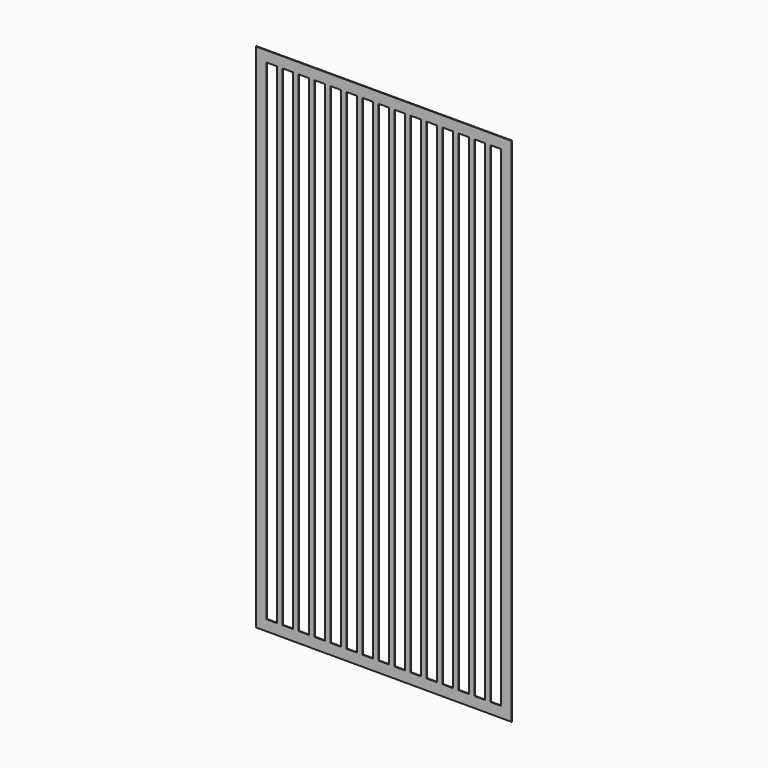
from build123d import *

# Parameters (mm, degrees)
F0_W     = 1219.2
F0_H     = 2438.4
F0_W_2   = 50.8
F0_H_2   = 2336.8
F1_DEPTH = 3.175


with BuildPart() as f1:
    # F0 (on Front) → F1 (new body)
    with BuildSketch(Plane.XZ):
        with Locations((-45.95434, -247.004782)):
            Rectangle(F0_W, F0_H)
        with Locations((-579.35434, -247.004782)):
            Rectangle(F0_W_2, F0_H_2, mode=Mode.SUBTRACT)
        with Locations((-503.15434, -247.004782)):
            Rectangle(F0_W_2, F0_H_2, mode=Mode.SUBTRACT)
        with Locations((-426.95434, -247.004782)):
            Rectangle(F0_W_2, F0_H_2, mode=Mode.SUBTRACT)
        with Locations((-350.75434, -247.004782)):
            Rectangle(F0_W_2, F0_H_2, mode=Mode.SUBTRACT)
        with Locations((-274.55434, -247.004782)):
            Rectangle(F0_W_2, F0_H_2, mode=Mode.SUBTRACT)
        with Locations((-198.35434, -247.004782)):
            Rectangle(F0_W_2, F0_H_2, mode=Mode.SUBTRACT)
        with Locations((-122.15434, -247.004782)):
            Rectangle(F0_W_2, F0_H_2, mode=Mode.SUBTRACT)
        with Locations((-45.95434, -247.004782)):
            Rectangle(F0_W_2, F0_H_2, mode=Mode.SUBTRACT)
        with Locations((30.24566, -247.004782)):
            Rectangle(F0_W_2, F0_H_2, mode=Mode.SUBTRACT)
        with Locations((106.44566, -247.004782)):
            Rectangle(F0_W_2, F0_H_2, mode=Mode.SUBTRACT)
        with Locations((182.64566, -247.004782)):
            Rectangle(F0_W_2, F0_H_2, mode=Mode.SUBTRACT)
        with Locations((258.84566, -247.004782)):
            Rectangle(F0_W_2, F0_H_2, mode=Mode.SUBTRACT)
        with Locations((335.04566, -247.004782)):
            Rectangle(F0_W_2, F0_H_2, mode=Mode.SUBTRACT)
        with Locations((411.24566, -247.004782)):
            Rectangle(F0_W_2, F0_H_2, mode=Mode.SUBTRACT)
        with Locations((487.44566, -247.004782)):
            Rectangle(F0_W_2, F0_H_2, mode=Mode.SUBTRACT)
    extrude(amount=F1_DEPTH)


solid = f1.part
